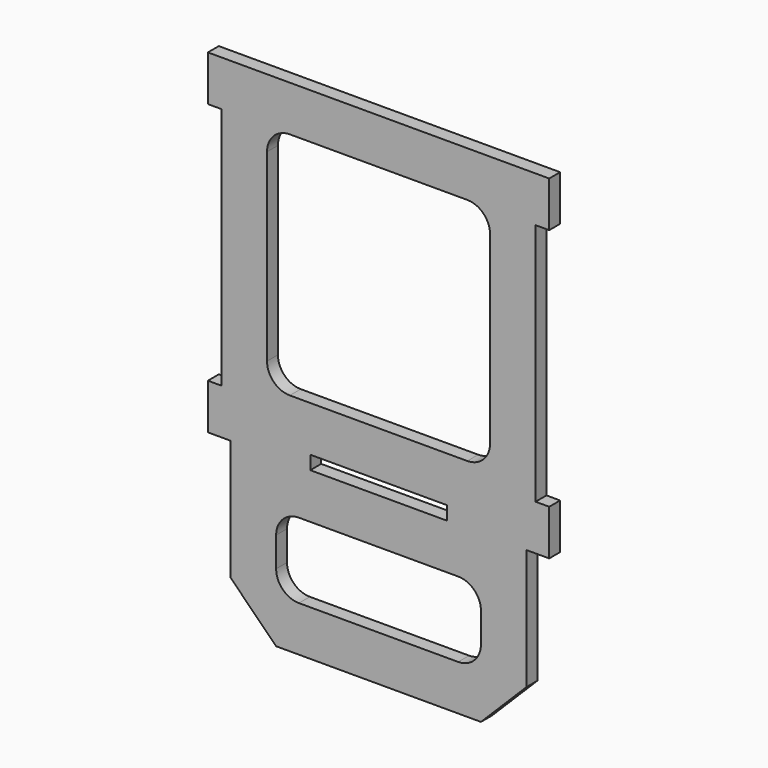
from build123d import *

# Parameters (mm, degrees)
F0_W     = 30
F0_H     = 3
F1_DEPTH = 1.5


with BuildPart() as f1:
    # F0 (on Front) → F1 (new body, symmetric)
    with BuildSketch(Plane.XZ):
        Polygon((37.5, 45), (37.5, 55), (-37.5, 55), (-37.5, 45), (-34.5, 45), (-34.5, -8.5), (-37.5, -8.5), (-37.5, -18.5), (-32.5, -18.5), (-32.5, -45), (-22.5, -55), (22.5, -55), (32.5, -45), (32.5, -18.5), (37.5, -18.5), (37.5, -8.5), (34.5, -8.5), (34.5, 45), align=None)
        with BuildLine():
            ThreePointArc((22.5, -40.0198768683), (21.0355339059, -43.5554107742), (17.5, -45.0198768683))
            Line((17.5, -45.0198768683), (-17.5, -45.0198768683))
            ThreePointArc((-17.5, -45.0198768683), (-21.0355339059, -43.5554107742), (-22.5, -40.0198768683))
            Line((-22.5, -40.0198768683), (-22.5, -33.5))
            ThreePointArc((-22.5, -33.5), (-21.0355339059, -29.9644660941), (-17.5, -28.5))
            Line((-17.5, -28.5), (17.5, -28.5))
            ThreePointArc((17.5, -28.5), (21.0355339059, -29.9644660941), (22.5, -33.5))
            Line((22.5, -33.5), (22.5, -40.0198768683))
        make_face(mode=Mode.SUBTRACT)
        with Locations((0, -17)):
            Rectangle(F0_W, F0_H, mode=Mode.SUBTRACT)
        with BuildLine():
            ThreePointArc((24.5, -0.5), (23.0355339059, -4.0355339059), (19.5, -5.5))
            Line((19.5, -5.5), (-19.5, -5.5))
            ThreePointArc((-19.5, -5.5), (-23.0355339059, -4.0355339059), (-24.5, -0.5))
            Line((-24.5, -0.5), (-24.5, 40))
            ThreePointArc((-24.5, 40), (-23.0355339059, 43.5355339059), (-19.5, 45))
            Line((-19.5, 45), (19.5, 45))
            ThreePointArc((19.5, 45), (23.0355339059, 43.5355339059), (24.5, 40))
            Line((24.5, 40), (24.5, -0.5))
        make_face(mode=Mode.SUBTRACT)
    extrude(amount=F1_DEPTH, both=True)


solid = f1.part
